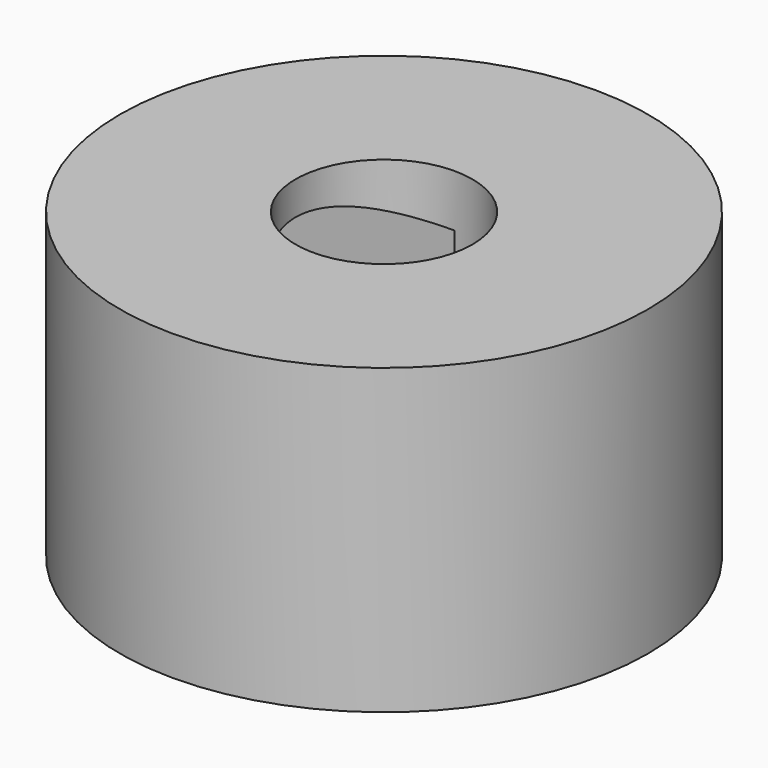
from build123d import *

# Parameters (mm, degrees)
F0_R     = 26.543977
F0_R_2   = 8.89
F1_DEPTH = 25.4
F3_DEPTH = 50.8
F4_R     = 26.543977
F5_DEPTH = 5.08


with BuildPart() as f1:
    # F0 (on Top) → F1 (new body)
    with BuildSketch(Plane.XY):
        Circle(F0_R)
        Circle(F0_R_2, mode=Mode.SUBTRACT)
    extrude(amount=F1_DEPTH)

    # F2 (on Right) → F3 (cut)
    with BuildSketch(Plane.YZ):
        with BuildLine():
            Line((-12.7, 17.921465), (-12.7, 0))
            Line((-12.7, 0), (12.7, 0))
            Line((12.7, 0), (12.7, 17.921465))
            ThreePointArc((12.7, 17.921465), (0, 22.035668), (-12.7, 17.921465))
        make_face()
    extrude(amount=-F3_DEPTH, mode=Mode.SUBTRACT)

    # F4 (on face) → F5 (join)
    with BuildSketch(Plane(origin=(0, 0, 0), x_dir=(1, 0, 0), z_dir=(0, 0, -1))):
        Circle(F4_R)
    extrude(amount=F5_DEPTH)


solid = f1.part
